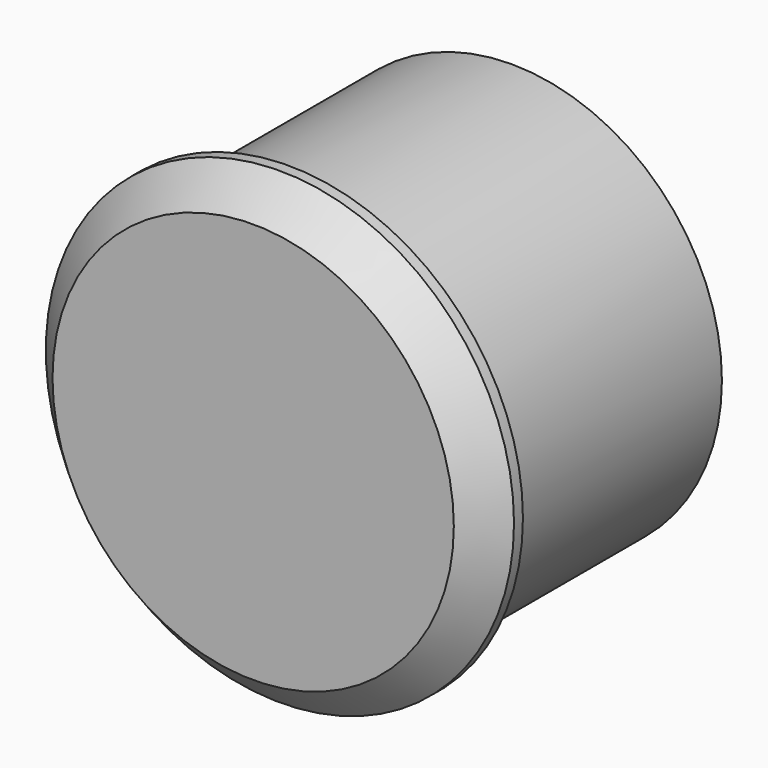
from build123d import *

# Parameters (mm, degrees)
F0_R     = 18.85
F0_R_2   = 16.85
F1_DEPTH = 25
F2_R     = 21
F3_DEPTH = 4
F4_SIZE  = 3


with BuildPart() as f1:
    # F0 (on Front) → F1 (new body)
    with BuildSketch(Plane.XZ):
        Circle(F0_R)
        Circle(F0_R_2, mode=Mode.SUBTRACT)
    extrude(amount=F1_DEPTH)

    # F2 (on face) → F3 (join)
    with BuildSketch(Plane.XZ.offset(25)):
        Circle(F2_R)
    extrude(amount=F3_DEPTH)

    # F4
    f4_edges = [f1.edges().sort_by_distance(p)[0] for p in [
        (-21, -29, 0),
    ]]
    chamfer(f4_edges, length=F4_SIZE)


solid = f1.part
